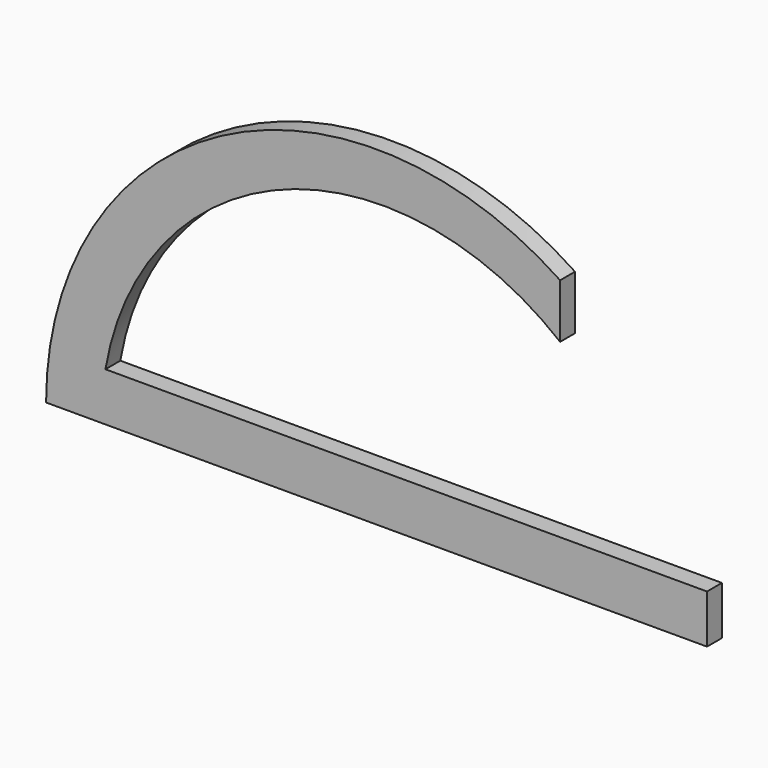
from build123d import *

# Parameters (mm, degrees)
F1_DEPTH = 2


with BuildPart() as f1:
    # F0 (on Front) → F1 (new body)
    with BuildSketch(Plane.XZ):
        with BuildLine():
            ThreePointArc((55.201449, 29.507583), (18.757896, 31.296555), (0, 0))
            Line((0, 0), (5.944516, 0))
            Line((5.944516, 0), (70.97454, 0))
            Line((70.97454, 0), (70.97454, 5.214779))
            Line((70.97454, 5.214779), (6.374073, 5.214779))
            ThreePointArc((6.374073, 5.214779), (25.497525, 28.434872), (55.201449, 23.685552))
            Line((55.201449, 23.685552), (55.201449, 29.507583))
        make_face()
    extrude(amount=F1_DEPTH)


solid = f1.part
